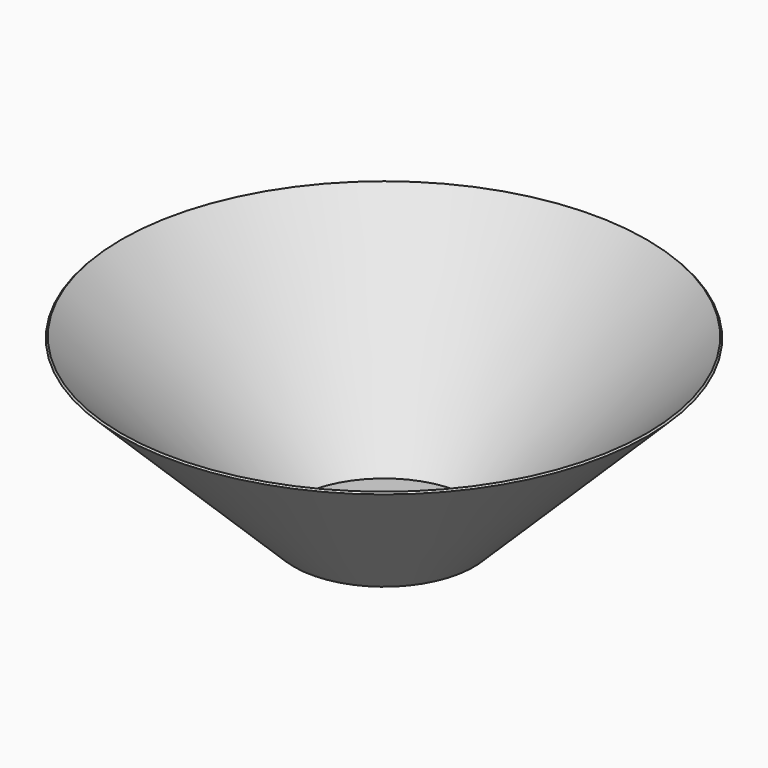
from build123d import *

# Parameters (mm, degrees)
F0_W = 2
F0_H = 13.376839


with BuildPart() as f1:
    # F0 (on Front) → F1 (revolve)
    with BuildSketch(Plane.XZ):
        Polygon((-20.32, 0), (-60.325, 0), (-177.8, 116.007045), (-178.853971, 114.939737), (-60.940803, -1.5), (-20.32, -1.5), align=None)
        with Locations((-16.75, 6.688419)):
            Rectangle(F0_W, F0_H)
    revolve(axis=Axis((0, 0, 58.003522), (0, 0, -1)))


solid = f1.part
